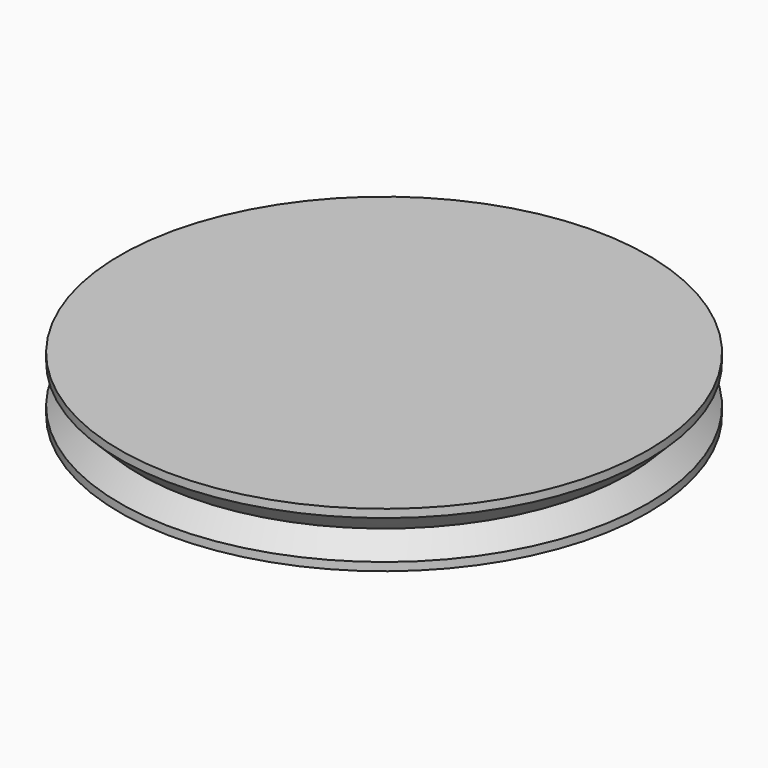
from build123d import *

# Parameters (mm, degrees)
CYLINDER001_R     = 4.1
CYLINDER001_DEPTH = 10
CYLINDER_R        = 48
CYLINDER_DEPTH    = 10


with BuildPart() as cylinder001:
    # Cylinder001 → Cylinder001 (new body)
    with BuildSketch(Plane.XY):
        Circle(CYLINDER001_R)
    extrude(amount=CYLINDER001_DEPTH)


with BuildPart() as revolution:
    # Sketch → Revolution (revolve)
    with BuildSketch(Plane.XZ):
        Polygon((44.482881, 5), (49.482881, 10), (49.482881, 0), align=None)
    revolve(axis=Axis((0, 0, 0), (0, 0, 1)))


with BuildPart() as cut:
    # Cylinder → Cylinder (new body)
    with BuildSketch(Plane.XY):
        Circle(CYLINDER_R)
    extrude(amount=CYLINDER_DEPTH)

    # Cut: cut Revolution
    add(revolution.part, mode=Mode.SUBTRACT)


solid = Compound([cylinder001.part, cut.part])
